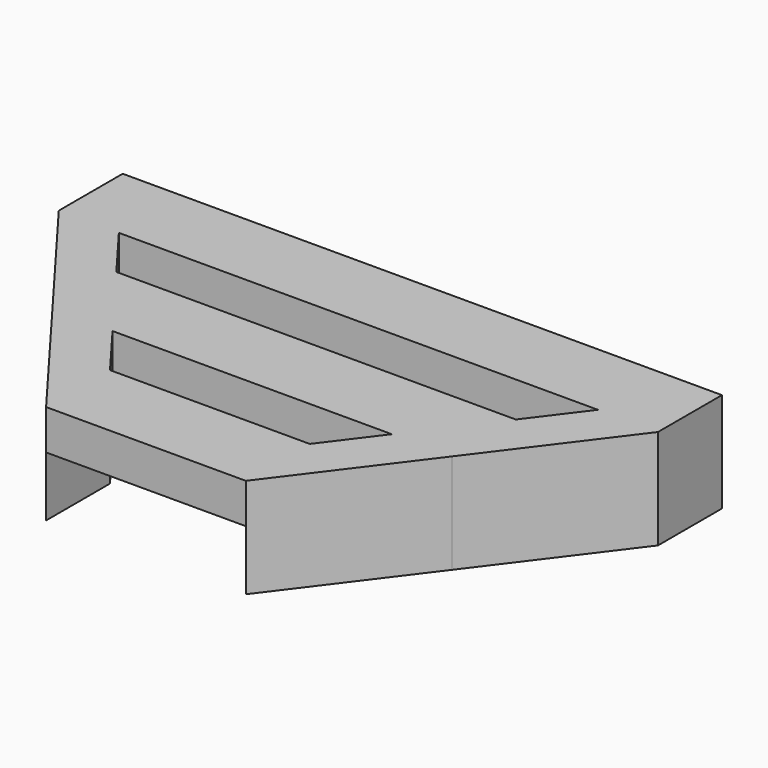
from build123d import *

# Parameters (mm, degrees)
F1_DEPTH = 5
F2_START = 3
F0_W     = 10
F0_H     = 4
F2_DEPTH = 2


with BuildPart() as f1:
    # F0 (on Top) → F1 (new body)
    with BuildSketch(Plane.XY):
        Polygon((-15, 21.9410226196), (-15, 17.9410226196), (-11.9911272283, 17.9410226196), align=None)
        Polygon((-11.9911272283, 17.9410226196), (-15, 17.9410226196), (-10, 11.2940150797), (-10, 15.2940150797), align=None)
        Polygon((-10, 15.2940150797), (-10, 11.2940150797), (-6.9911272283, 11.2940150797), align=None)
        Polygon((-6.9911272283, 11.2940150797), (-10, 11.2940150797), (-5, 4.6470075399), (-5, 8.6470075399), align=None)
    extrude(amount=F1_DEPTH)



with BuildPart() as f1b:
    # F0 (on Top) → F1, piece 2 (new body)
    with BuildSketch(Plane.XY):
        Polygon((10, 11.2940150797), (6.9911272283, 11.2940150797), (5, 8.6470075399), (5, 4.6470075399), align=None)
        Polygon((10, 11.2940150797), (10, 15.2940150797), (6.9911272283, 11.2940150797), align=None)
        Polygon((15, 17.9410226196), (11.9911272283, 17.9410226196), (10, 15.2940150797), (10, 11.2940150797), align=None)
        Polygon((15, 21.9410226196), (11.9911272283, 17.9410226196), (15, 17.9410226196), align=None)
    extrude(amount=F1_DEPTH)


with BuildPart() as f1_1:
    add(f1.part)

    add(f1b.part)  # F2 merges F1b
    # F0 (on Top) → F2 (join)
    with BuildSketch(Plane.XY.offset(F2_START)):
        with Locations((0, 6.6470075399)):
            Rectangle(F0_W, F0_H)
        Polygon((10, 15.2940150797), (-10, 15.2940150797), (-6.9911272283, 11.2940150797), (6.9911272283, 11.2940150797), align=None)
        Polygon((-15, 21.9410226196), (-11.9911272283, 17.9410226196), (11.9911272283, 17.9410226196), (15, 21.9410226196), align=None)
    extrude(amount=F2_DEPTH)


solid = f1_1.part
